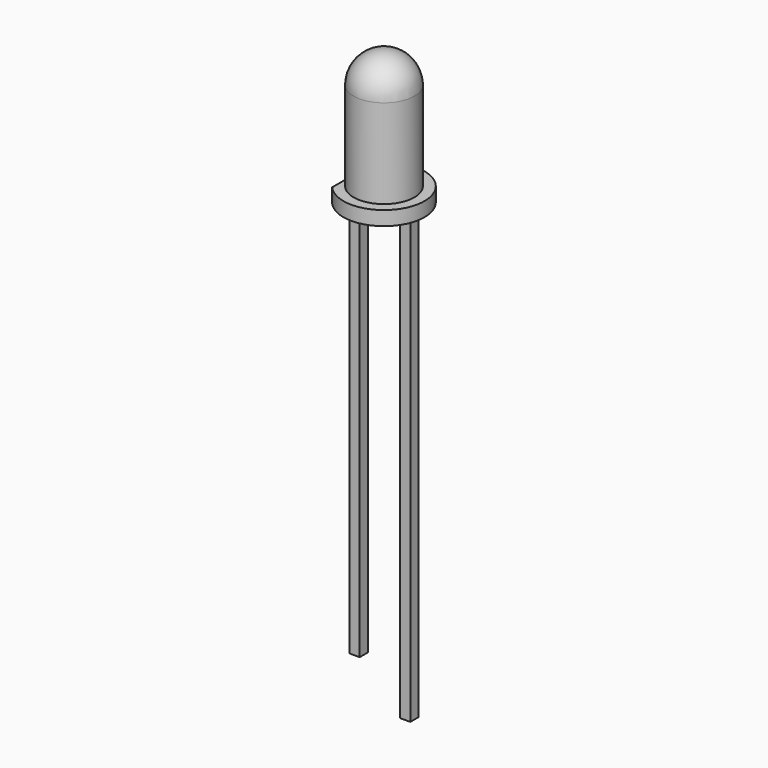
from build123d import *

# Parameters (mm, degrees)
F0_R      = 1.5
F1_DEPTH  = 5.1
F5_DEPTH  = 0.7
F6_W      = 0.5
F6_H      = 0.5
F7_DEPTH  = 20
F7_FACE_W = 0.5
F7_FACE_H = 0.5
F8_DEPTH  = 2


with BuildPart() as f1:
    # F0 (on Top) → F1 (new body)
    with BuildSketch(Plane.XY):
        Circle(F0_R)
    extrude(amount=F1_DEPTH)

    # F2 (on face) → F3 (revolve)
    with BuildSketch(Plane.XY.offset(5.1)):
        with BuildLine():
            ThreePointArc((0, 1.5), (-1.5, 0), (0, -1.5))
            Line((0, -1.5), (0, 1.5))
        make_face()
    revolve(axis=Axis((0, 0, 5.1), (0, 1, 0)))

    # F4 (on face) → F5 (join)
    with BuildSketch(Plane(origin=(0, 0, 0), x_dir=(1, 0, 0), z_dir=(0, 0, -1))):
        with BuildLine():
            Line((-1.5, 1.322876), (-1.5, -1.322876))
            ThreePointArc((-1.5, -1.322876), (2, 0), (-1.5, 1.322876))
        make_face()
    extrude(amount=-F5_DEPTH)

    # F6 (on face) → F7 (join)
    with BuildSketch(Plane(origin=(0, 0, 0), x_dir=(1, 0, 0), z_dir=(0, 0, -1))):
        with Locations((1.25, 0)):
            Rectangle(F6_W, F6_H)
        with Locations((-1.25, 0)):
            Rectangle(F6_W, F6_H)
    extrude(amount=F7_DEPTH)

    # F7_face (on face) → F8 (join)
    with BuildSketch(Plane(origin=(1.25, 0, -20), x_dir=(1, 0, 0), z_dir=(0, 0, -1))):
        Rectangle(F7_FACE_W, F7_FACE_H)
    extrude(amount=F8_DEPTH)


solid = f1.part
